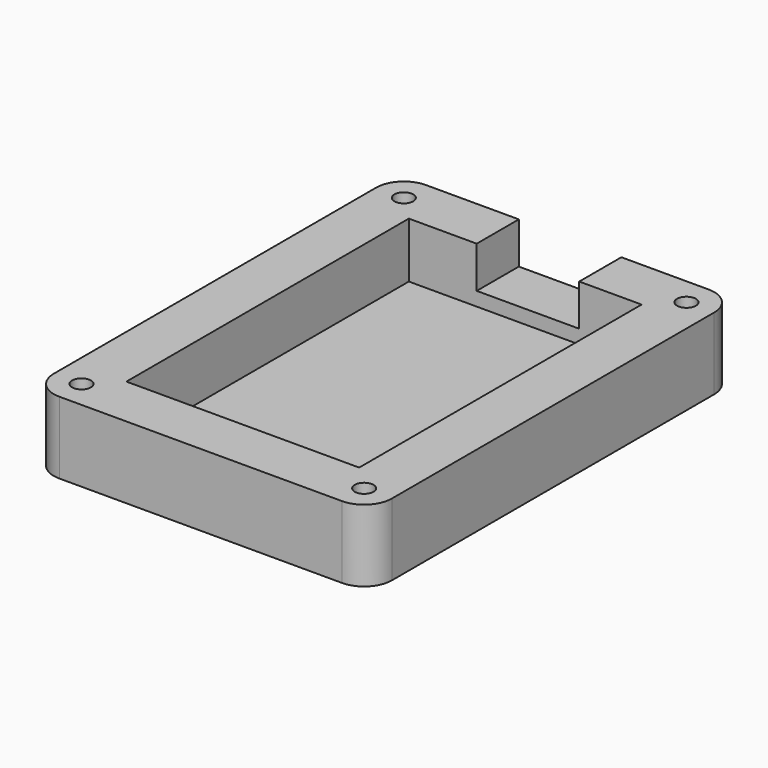
from build123d import *

# Parameters (mm, degrees)
SKETCH_R        = 1.7
PAD_DEPTH       = 13
SKETCH001_W     = 42
SKETCH001_H     = 63.7
POCKET_DEPTH    = 10
SKETCH002_W     = 18.5
SKETCH002_H     = 7.5
POCKET001_DEPTH = 11
SKETCH003_R     = 3
POCKET002_DEPTH = 3.1


with BuildPart() as part:
    # Sketch → Pad (new body)
    with BuildSketch(Plane.XY):
        with BuildLine():
            Line((-5, -5), (-5, -77.7))
            ThreePointArc((-5, -77.7), (-3.535534, -81.235534), (0, -82.7))
            Line((0, -82.7), (51, -82.7))
            ThreePointArc((51, -82.7), (54.535534, -81.235534), (56, -77.7))
            Line((56, -77.7), (56, -5))
            ThreePointArc((56, -5), (54.535534, -1.464466), (51, 0))
            Line((51, 0), (0, 0))
            ThreePointArc((0, 0), (-3.535534, -1.464466), (-5, -5))
        make_face()
        with Locations((0, -5)):
            Circle(SKETCH_R, mode=Mode.SUBTRACT)
        with Locations((51, -5)):
            Circle(SKETCH_R, mode=Mode.SUBTRACT)
        with Locations((51, -77.7)):
            Circle(SKETCH_R, mode=Mode.SUBTRACT)
        with Locations((0, -77.7)):
            Circle(SKETCH_R, mode=Mode.SUBTRACT)
    extrude(amount=PAD_DEPTH)

    # Sketch001 (on Face14 of Pad) → Pocket (cut)
    with BuildSketch(Plane.XY.offset(13)):
        with Locations((25.5, -41.35)):
            Rectangle(SKETCH001_W, SKETCH001_H)
    extrude(amount=-POCKET_DEPTH, mode=Mode.SUBTRACT)

    # Sketch002 (on Face6 of Pocket) → Pocket001 (cut)
    with BuildSketch(Plane(origin=(0, 0, 0), x_dir=(-1, 0, 0), z_dir=(0, 1, 0))):
        with Locations((-26, 9.25)):
            Rectangle(SKETCH002_W, SKETCH002_H)
    extrude(amount=-POCKET001_DEPTH, mode=Mode.SUBTRACT)

    # Sketch003 (on Face4 of Pocket001) → Pocket002 (cut)
    with BuildSketch(Plane(origin=(0, 0, 0), x_dir=(1, 0, 0), z_dir=(0, 0, -1))):
        with Locations((0, 5)):
            Circle(SKETCH003_R)
        with Locations((51, 5)):
            Circle(SKETCH003_R)
        with Locations((51, 77.7)):
            Circle(SKETCH003_R)
        with Locations((0, 77.7)):
            Circle(SKETCH003_R)
    extrude(amount=-POCKET002_DEPTH, mode=Mode.SUBTRACT)


solid = part.part
